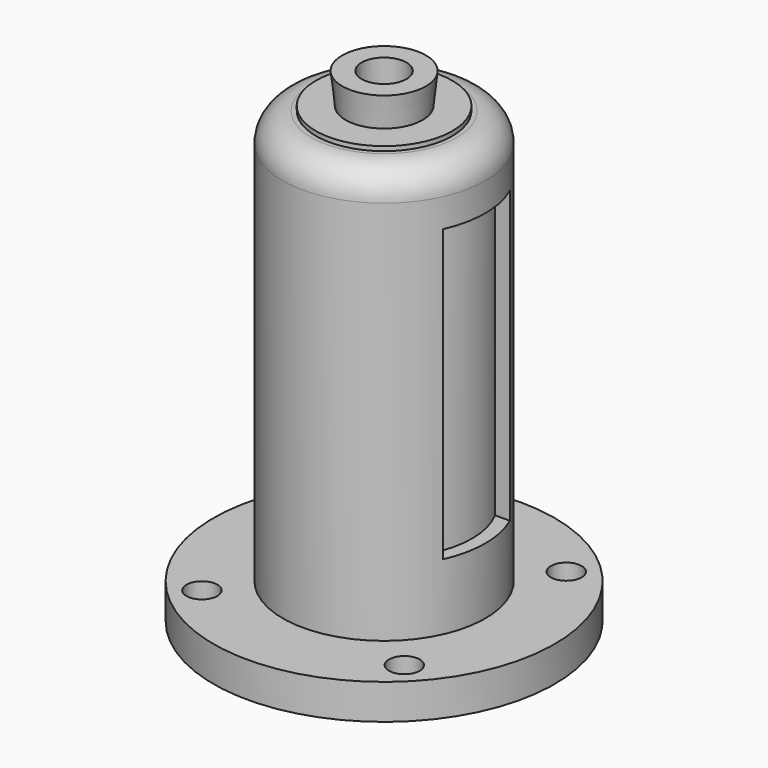
from build123d import *

# Parameters (mm, degrees)
F5_D          = 20.376
F7_D          = 14
F8_W          = 38
F8_H          = 132
F9_DEPTH      = 77.501
F9_DEPTH_BACK = 77.501
F11_D         = 6
F11_DEPTH     = 10
F11_TIP       = 1.8025818571


with BuildPart() as f1:
    # F0 (on Right) → F1 (revolve)
    with BuildSketch(Plane.YZ):
        with BuildLine():
            Line((19, 225), (0, 225))
            Line((0, 225), (0, 0))
            Line((0, 0), (45, 0))
            Line((45, 0), (45, 5))
            Line((45, 5), (77.5, 5))
            Line((77.5, 5), (77.5, 21))
            Line((77.5, 21), (46, 21))
            Line((46, 21), (46, 196))
            ThreePointArc((46, 196), (42.1923881554, 205.1923881554), (33, 209))
            Line((33, 209), (31, 209))
            Line((31, 209), (31, 211))
            Line((31, 211), (17.5, 211))
            Line((17.5, 211), (19, 225))
        make_face()
    revolve(axis=Axis((0, 0, 103.9262376726), (0, 0, -1)))

    # F2 (on Right) → F3 (revolve, cut)
    with BuildSketch(Plane.YZ):
        with BuildLine():
            Line((33, 203), (0, 203))
            Line((0, 203), (0, -6))
            Line((0, -6), (40, -6))
            Line((40, -6), (40, 196))
            ThreePointArc((40, 196), (37.9497474683, 200.9497474683), (33, 203))
        make_face()
    revolve(axis=Axis((0, 0, 103.9262376726), (0, 0, -1)), mode=Mode.SUBTRACT)

    # F5 (through all)
    with Locations(Plane.XY.offset(225)):
        with Locations((0, 0)):
            Hole(F5_D / 2)

    # F7 (through all)
    with Locations(Plane.XY.offset(21)):
        with Locations((45.9619407771, 45.9619407771), (45.9619407771, -45.9619407771), (-45.9619407771, 45.9619407771), (-45.9619407771, -45.9619407771)):
            Hole(F7_D / 2)

    # F8 (on Right) → F9 (cut, two sides)
    with BuildSketch(Plane.YZ) as f9_sk:
        with Locations((0, 117)):
            Rectangle(F8_W, F8_H)
    extrude(amount=-F9_DEPTH, mode=Mode.SUBTRACT)
    extrude(f9_sk.sketch, amount=F9_DEPTH_BACK, mode=Mode.SUBTRACT)

    # F11
    with Locations(Plane(origin=(0, 0, 5), x_dir=(1, 0, 0), z_dir=(0, 0, -1))):
        with Locations((0, 65)):
            Hole(F11_D / 2, depth=F11_DEPTH)
            with Locations((0, 0, -(F11_DEPTH + F11_TIP / 2))):  # 118° drill point
                Cone(0, F11_D / 2, F11_TIP, mode=Mode.SUBTRACT)


solid = f1.part
